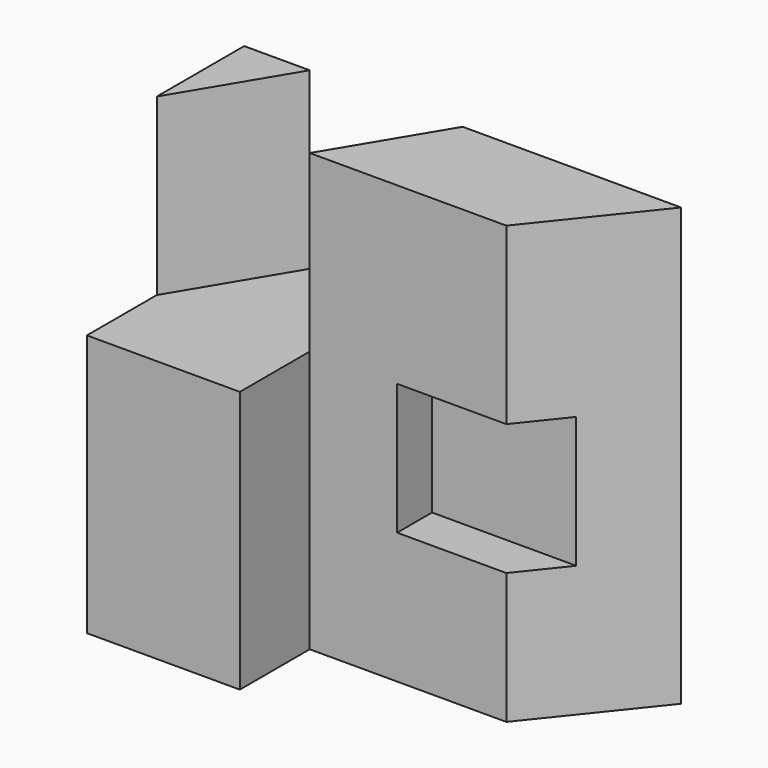
from build123d import *

# Parameters (mm, degrees)
F0_W      = 35
F0_H      = 45
F1_DEPTH  = 60
F3_DEPTH  = 40
F5_DEPTH  = 15
F8_DEPTH  = 85
F9_W      = 45
F9_H      = 30
F10_DEPTH = 10


with BuildPart() as f1:
    # F0 (on Top) → F1 (new body)
    with BuildSketch(Plane.XY):
        with Locations((-17.5, -22.5)):
            Rectangle(F0_W, F0_H)
    extrude(amount=F1_DEPTH)

    # F2 (on face) → F3 (join)
    with BuildSketch(Plane.XY.offset(60)):
        Polygon((-35, -25), (-20, 0), (-35, 0), align=None)
    extrude(amount=F3_DEPTH)

    # F4 (on Top) → F5 (join)
    with BuildSketch(Plane.XY):
        Polygon((65, 0), (0, 0), (0, -25), (45, -25), align=None)
    extrude(amount=F5_DEPTH)

    # F7 (on face) → F8 (join, through all)
    with BuildSketch(Plane.XY.offset(15)):
        Polygon((45, -25), (65, 0), (15, 0), (0, -24.999), (0, -25), align=None)
    extrude(amount=F8_DEPTH)

    # F9 (on face) → F10 (cut)
    with BuildSketch(Plane.XZ.offset(25)):
        with Locations((42.5, 45)):
            Rectangle(F9_W, F9_H)
    extrude(amount=-F10_DEPTH, mode=Mode.SUBTRACT)


solid = f1.part
